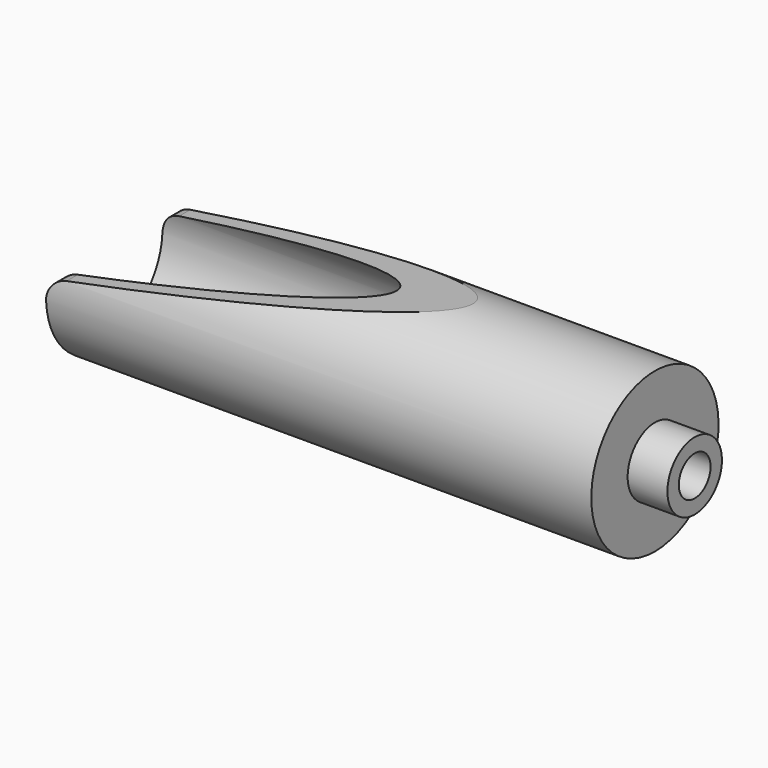
from build123d import *

# Parameters (mm, degrees)
F3_DEPTH = 38.1


with BuildPart() as f1:
    # F0 (on Front) → F1 (revolve)
    with BuildSketch(Plane.XZ):
        with BuildLine():
            Line((-11.1125, -9.525), (0, -9.525))
            Line((0, -9.525), (0, -5.55625))
            Line((0, -5.55625), (-23.8125, -5.55625))
            Line((-23.8125, -5.55625), (-23.8125, -15.28064))
            ThreePointArc((-23.8125, -15.28064), (-24.7424359697, -17.5257040303), (-26.9875, -18.45564))
            Line((-26.9875, -18.45564), (-163.5125, -18.45564))
            Line((-163.5125, -18.45564), (-163.5125, -22.225))
            Line((-163.5125, -22.225), (-11.1125, -22.225))
            Line((-11.1125, -22.225), (-11.1125, -9.525))
        make_face()
    revolve(axis=Axis((-81.75625, 0, 0), (1, 0, 0)))

    # F2 (on Front) → F3 (cut, symmetric)
    with BuildSketch(Plane.XZ):
        with BuildLine():
            Line((-61.9125, 22.225), (-169.8625, 22.225))
            Line((-169.8625, 22.225), (-169.8625, -22.225))
            Line((-169.8625, -22.225), (-163.5125, -22.225))
            Line((-163.5125, -22.225), (-163.5125, -1.018103898))
            ThreePointArc((-163.5125, -1.018103898), (-162.0268822138, 3.0635974236), (-158.2651659282, 5.2354253337))
            Line((-158.2651659282, 5.2354253337), (-61.9125, 22.225))
        make_face()
    extrude(amount=F3_DEPTH, both=True, mode=Mode.SUBTRACT)


solid = f1.part
